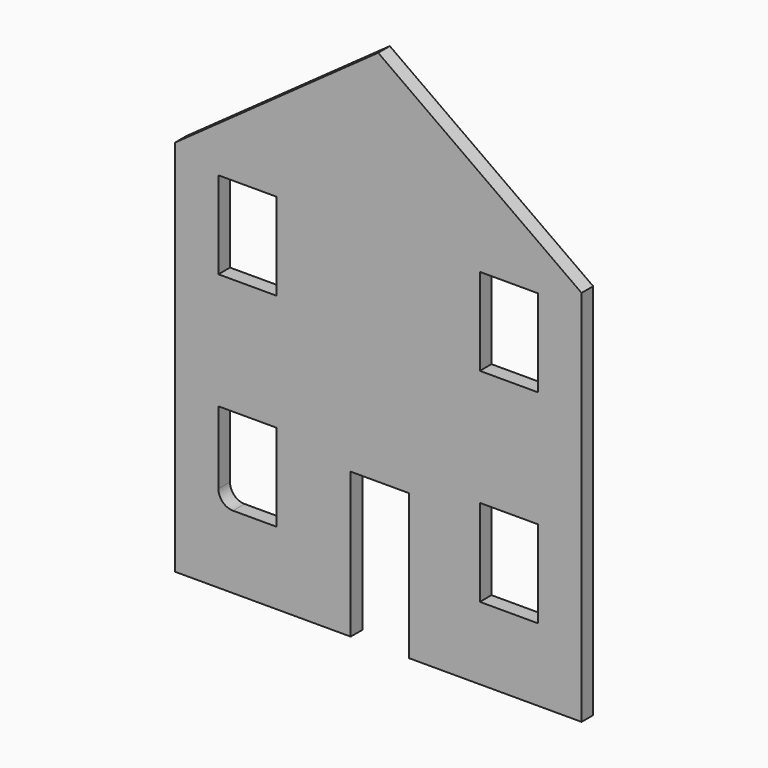
from build123d import *

# Parameters (mm, degrees)
F0_W     = 20
F0_H     = 30
F1_DEPTH = 2.5
F2_R     = 5


with BuildPart() as f1:
    # F0 (on Front) → F1 (new body, symmetric)
    with BuildSketch(Plane.XZ):
        Polygon((-70, 80), (70, 80), (70, 130), (0, 180), (-70, 130), align=None)
        with Locations((-45, 110)):
            Rectangle(F0_W, F0_H, mode=Mode.SUBTRACT)
        with Locations((45, 110)):
            Rectangle(F0_W, F0_H, mode=Mode.SUBTRACT)
        Polygon((10.535191, 0), (70, 0), (70, 80), (-70, 80), (-70, 0), (-9.464809, 0), (-9.464809, 50), (10.535191, 50), align=None)
        with Locations((-45, 40)):
            Rectangle(F0_W, F0_H, mode=Mode.SUBTRACT)
        with Locations((45, 40)):
            Rectangle(F0_W, F0_H, mode=Mode.SUBTRACT)
    extrude(amount=F1_DEPTH, both=True)

    # F2
    f2_edges = [f1.edges().sort_by_distance(p)[0] for p in [
        (-55, 0, 25),
    ]]
    fillet(f2_edges, radius=F2_R)


solid = f1.part
